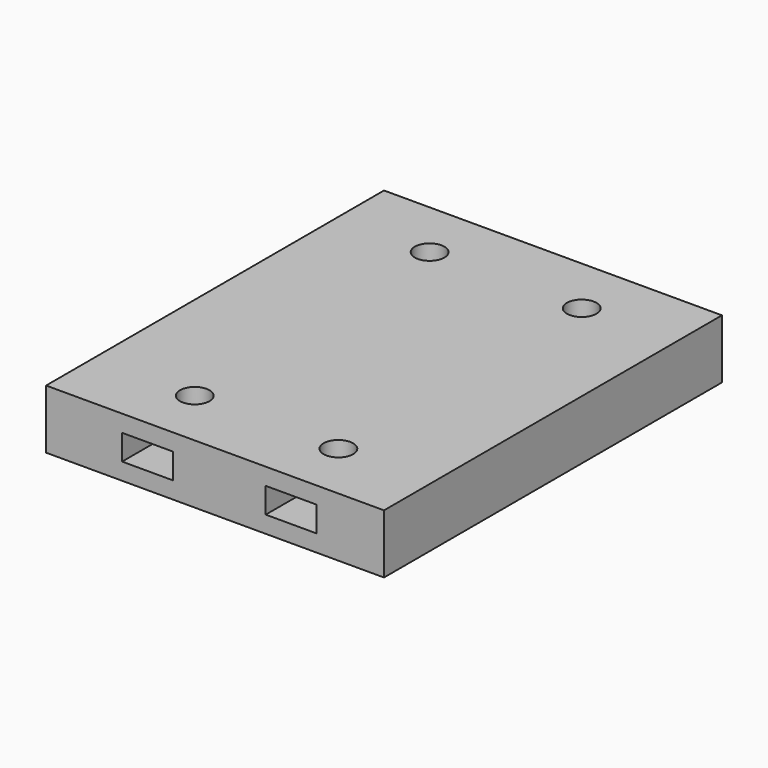
from build123d import *

# Parameters (mm, degrees)
CYLINDER021_R             = 1.75
CYLINDER021_DEPTH         = 30
BOX023_W                  = 20
BOX023_H                  = 6
BOX023_DEPTH              = 3
PRISM021_DEPTH            = 3
FUSION018_PLACEMENT_ANGLE = 90
CYLINDER019_R             = 1.75
CYLINDER019_DEPTH         = 30
BOX020_W                  = 20
BOX020_H                  = 6
BOX020_DEPTH              = 3
PRISM019_DEPTH            = 3
FUSION019_PLACEMENT_ANGLE = 90
CYLINDER022_R             = 1.75
CYLINDER022_DEPTH         = 30
BOX021_W                  = 20
BOX021_H                  = 6
BOX021_DEPTH              = 3
PRISM022_DEPTH            = 3
FUSION020_PLACEMENT_ANGLE = 90
CYLINDER020_R             = 1.75
CYLINDER020_DEPTH         = 30
BOX022_W                  = 20
BOX022_H                  = 6
BOX022_DEPTH              = 3
PRISM020_DEPTH            = 3
FUSION017_PLACEMENT_ANGLE = 90
BOX019_W                  = 40
BOX019_H                  = 50
BOX019_DEPTH              = 7


with BuildPart() as cilindro021:
    # Cylinder021 → Cylinder021 (new body)
    with BuildSketch(Plane.XY.offset(-5)):
        Circle(CYLINDER021_R)
    extrude(amount=CYLINDER021_DEPTH)


with BuildPart() as cubo023:
    # Box023 → Box023 (new body)
    with BuildSketch(Plane(origin=(1, -3, 0), x_dir=(1, 0, 0), z_dir=(0, 0, 1))):
        with Locations((10, 3)):
            Rectangle(BOX023_W, BOX023_H)
    extrude(amount=BOX023_DEPTH)


with BuildPart() as fusion018:
    # Prism021 → Prism021 (new body)
    with BuildSketch(Plane.XY):
        Polygon((3.25, 0), (1.625, 2.814583), (-1.625, 2.814583), (-3.25, 0), (-1.625, -2.814583), (1.625, -2.814583), align=None)
    extrude(amount=PRISM021_DEPTH)

    # Fusion018: union Cilindro021, Cubo023
    add(cilindro021.part)
    add(cubo023.part)


with BuildPart() as fusion018_1:
    # Fusion018 placement: moved
    add(fusion018.part.moved(Location((29, 43, 2))).rotate(Axis((29, 43, 2), (0, 0, 1)), FUSION018_PLACEMENT_ANGLE))


with BuildPart() as cilindro019:
    # Cylinder019 → Cylinder019 (new body)
    with BuildSketch(Plane.XY.offset(-5)):
        Circle(CYLINDER019_R)
    extrude(amount=CYLINDER019_DEPTH)


with BuildPart() as cubo020:
    # Box020 → Box020 (new body)
    with BuildSketch(Plane(origin=(1, -3, 0), x_dir=(1, 0, 0), z_dir=(0, 0, 1))):
        with Locations((10, 3)):
            Rectangle(BOX020_W, BOX020_H)
    extrude(amount=BOX020_DEPTH)


with BuildPart() as fusion019:
    # Prism019 → Prism019 (new body)
    with BuildSketch(Plane.XY):
        Polygon((3.25, 0), (1.625, 2.814583), (-1.625, 2.814583), (-3.25, 0), (-1.625, -2.814583), (1.625, -2.814583), align=None)
    extrude(amount=PRISM019_DEPTH)

    # Fusion019: union Cilindro019, Cubo020
    add(cilindro019.part)
    add(cubo020.part)


with BuildPart() as fusion019_1:
    # Fusion019 placement: moved
    add(fusion019.part.moved(Location((29, 7, 2))).rotate(Axis((29, 7, 2), (0, 0, -1)), FUSION019_PLACEMENT_ANGLE))


with BuildPart() as cilindro022:
    # Cylinder022 → Cylinder022 (new body)
    with BuildSketch(Plane.XY.offset(-5)):
        Circle(CYLINDER022_R)
    extrude(amount=CYLINDER022_DEPTH)


with BuildPart() as cubo021:
    # Box021 → Box021 (new body)
    with BuildSketch(Plane(origin=(1, -3, 0), x_dir=(1, 0, 0), z_dir=(0, 0, 1))):
        with Locations((10, 3)):
            Rectangle(BOX021_W, BOX021_H)
    extrude(amount=BOX021_DEPTH)


with BuildPart() as fusion020:
    # Prism022 → Prism022 (new body)
    with BuildSketch(Plane.XY):
        Polygon((3.25, 0), (1.625, 2.814583), (-1.625, 2.814583), (-3.25, 0), (-1.625, -2.814583), (1.625, -2.814583), align=None)
    extrude(amount=PRISM022_DEPTH)

    # Fusion020: union Cilindro022, Cubo021
    add(cilindro022.part)
    add(cubo021.part)


with BuildPart() as fusion020_1:
    # Fusion020 placement: moved
    add(fusion020.part.moved(Location((12, 7, 2))).rotate(Axis((12, 7, 2), (0, 0, -1)), FUSION020_PLACEMENT_ANGLE))


with BuildPart() as cilindro020:
    # Cylinder020 → Cylinder020 (new body)
    with BuildSketch(Plane.XY.offset(-5)):
        Circle(CYLINDER020_R)
    extrude(amount=CYLINDER020_DEPTH)


with BuildPart() as cubo022:
    # Box022 → Box022 (new body)
    with BuildSketch(Plane(origin=(1, -3, 0), x_dir=(1, 0, 0), z_dir=(0, 0, 1))):
        with Locations((10, 3)):
            Rectangle(BOX022_W, BOX022_H)
    extrude(amount=BOX022_DEPTH)


with BuildPart() as fusion017:
    # Prism020 → Prism020 (new body)
    with BuildSketch(Plane.XY):
        Polygon((3.25, 0), (1.625, 2.814583), (-1.625, 2.814583), (-3.25, 0), (-1.625, -2.814583), (1.625, -2.814583), align=None)
    extrude(amount=PRISM020_DEPTH)

    # Fusion017: union Cilindro020, Cubo022
    add(cilindro020.part)
    add(cubo022.part)


with BuildPart() as fusion017_1:
    # Fusion017 placement: moved
    add(fusion017.part.moved(Location((11, 43, 2))).rotate(Axis((11, 43, 2), (0, 0, 1)), FUSION017_PLACEMENT_ANGLE))


with BuildPart() as cut029:
    # Box019 → Box019 (new body)
    with BuildSketch(Plane.XY):
        with Locations((20, 25)):
            Rectangle(BOX019_W, BOX019_H)
    extrude(amount=BOX019_DEPTH)

    # Cut026: cut Fusion017
    add(fusion017_1.part, mode=Mode.SUBTRACT)

    # Cut027: cut Fusion020
    add(fusion020_1.part, mode=Mode.SUBTRACT)

    # Cut028: cut Fusion019
    add(fusion019_1.part, mode=Mode.SUBTRACT)

    # Cut029: cut Fusion018
    add(fusion018_1.part, mode=Mode.SUBTRACT)


solid = cut029.part
